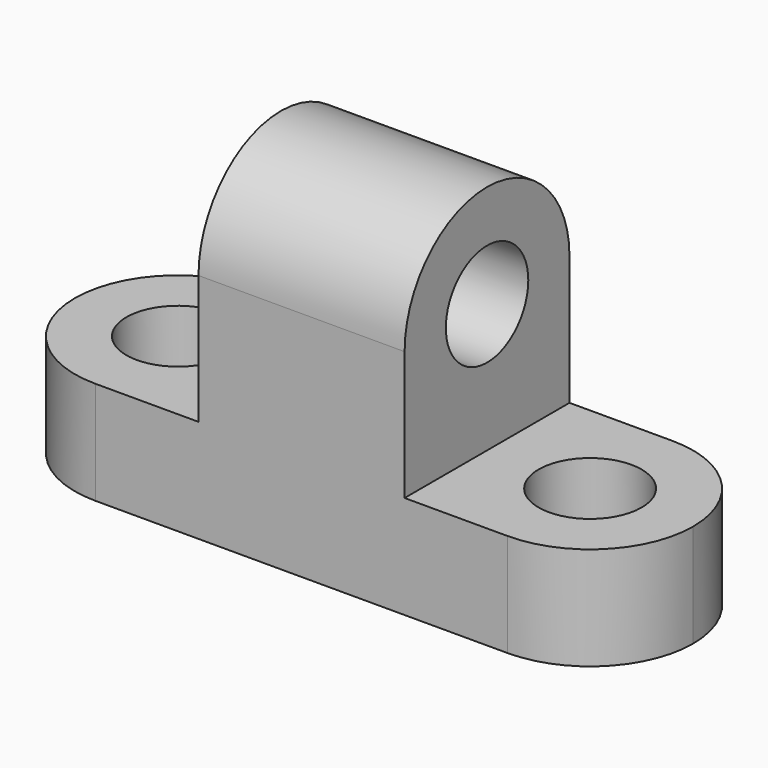
from build123d import *

# Parameters (mm, degrees)
F1_DEPTH  = 25.4
F3_DEPTH  = 25.4
F4_R      = 6.35
F5_DEPTH  = 25.4
F7_DEPTH  = 25.4
F9_DEPTH  = 25.4
F10_R     = 6.35
F11_DEPTH = 25.4
F12_R     = 6.35
F13_DEPTH = 25.4


with BuildPart() as f1:
    # F0 (on Front) → F1 (new body)
    with BuildSketch(Plane.XZ):
        Polygon((-33.770596805, 12.7), (-33.770596805, 0), (42.429403195, 0), (42.429403195, 12.7), (17.029403195, 12.7), (17.029403195, 44.45), (-8.370596805, 44.45), (-8.370596805, 12.7), align=None)
    extrude(amount=F1_DEPTH)

    # F2 (on face) → F3 (cut)
    with BuildSketch(Plane.YZ.offset(17.029403195)):
        with BuildLine():
            ThreePointArc((-25.4, 28.575), (-12.7, 41.275), (0, 28.575))
            Line((0, 28.575), (0, 44.45))
            Line((0, 44.45), (-25.4, 44.45))
            Line((-25.4, 44.45), (-25.4, 28.575))
        make_face()
    extrude(amount=-F3_DEPTH, mode=Mode.SUBTRACT)

    # F4 (on face) → F5 (cut)
    with BuildSketch(Plane.YZ.offset(17.029403195)):
        with Locations((-12.7, 28.575)):
            Circle(F4_R)
    extrude(amount=-F5_DEPTH, mode=Mode.SUBTRACT)

    # F6 (on face) → F7 (cut)
    with BuildSketch(Plane.XY.offset(12.7)):
        with BuildLine():
            ThreePointArc((29.729403195, 0), (38.7096593161, -3.7197438789), (42.429403195, -12.7))
            Line((42.429403195, -12.7), (42.429403195, 0))
            Line((42.429403195, 0), (29.729403195, 0))
        make_face()
        with BuildLine():
            Line((42.429403195, -25.4), (42.429403195, -12.7))
            ThreePointArc((42.429403195, -12.7), (38.7096593161, -21.6802561211), (29.729403195, -25.4))
            Line((29.729403195, -25.4), (42.429403195, -25.4))
        make_face()
    extrude(amount=-F7_DEPTH, mode=Mode.SUBTRACT)

    # F8 (on face) → F9 (cut)
    with BuildSketch(Plane.XY.offset(12.7)):
        with BuildLine():
            ThreePointArc((-33.770596805, -12.7), (-30.0508529261, -3.7197438789), (-21.070596805, 0))
            Line((-21.070596805, 0), (-33.770596805, 0))
            Line((-33.770596805, 0), (-33.770596805, -12.7))
        make_face()
        with BuildLine():
            Line((-33.770596805, -25.4), (-21.070596805, -25.4))
            ThreePointArc((-21.070596805, -25.4), (-30.0508529261, -21.6802561211), (-33.770596805, -12.7))
            Line((-33.770596805, -12.7), (-33.770596805, -25.4))
        make_face()
    extrude(amount=-F9_DEPTH, mode=Mode.SUBTRACT)

    # F10 (on face) → F11 (cut)
    with BuildSketch(Plane.XY.offset(12.7)):
        with Locations((-21.070596805, -12.7)):
            Circle(F10_R)
    extrude(amount=-F11_DEPTH, mode=Mode.SUBTRACT)

    # F12 (on face) → F13 (cut)
    with BuildSketch(Plane.XY.offset(12.7)):
        with Locations((29.729403195, -12.7)):
            Circle(F12_R)
    extrude(amount=-F13_DEPTH, mode=Mode.SUBTRACT)


solid = f1.part
